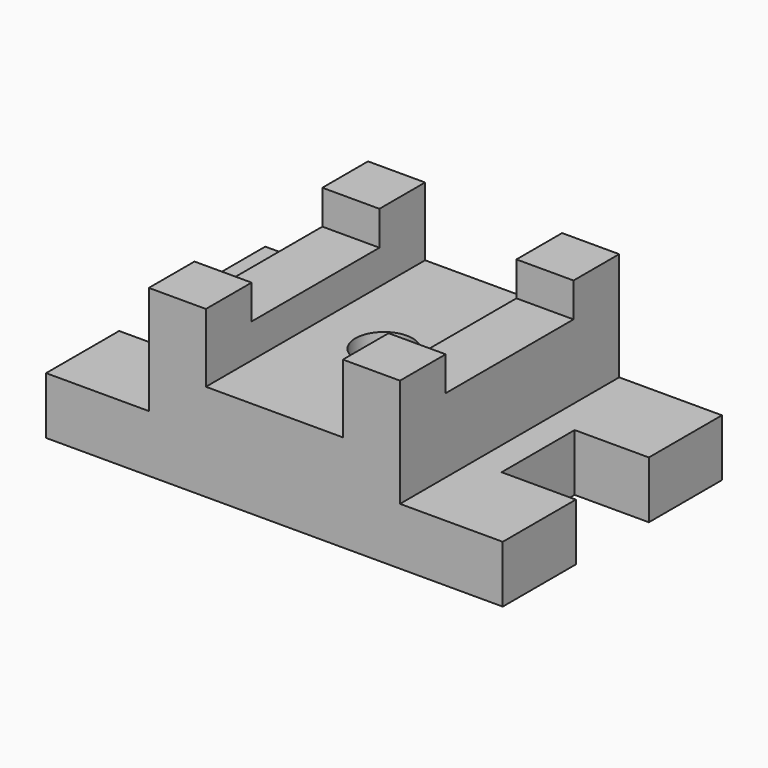
from build123d import *

# Parameters (mm, degrees)
F1_DEPTH = 31.75
F0_W     = 31.75
F0_H     = 31.75
F2_DEPTH = 92.075
F0_H_2   = 88.9
F3_DEPTH = 73.025
F0_R     = 15.875
F4_DEPTH = 53.975


with BuildPart() as f1:
    # F0 (on Top) → F1 (new body)
    with BuildSketch(Plane.XY):
        Polygon((-61.845282, 101.6), (-118.995282, 101.6), (-118.995282, 50.8), (-77.720282, 50.8), (-77.720282, 0), (-118.995282, 0), (-118.995282, -50.8), (-61.845282, -50.8), (-61.845282, -19.05), (-61.845282, 69.85), align=None)
        Polygon((135.004718, 101.6), (77.854718, 101.6), (77.854718, 69.85), (77.854718, -19.05), (77.854718, -50.8), (135.004718, -50.8), (135.004718, 0), (93.729718, 0), (93.729718, 50.8), (135.004718, 50.8), align=None)
    extrude(amount=F1_DEPTH)

    # F0 (on Top) → F2 (join)
    with BuildSketch(Plane.XY):
        with Locations((-45.970282, 85.725)):
            Rectangle(F0_W, F0_H)
        with Locations((61.979718, 85.725)):
            Rectangle(F0_W, F0_H)
        with Locations((-45.970282, -34.925)):
            Rectangle(F0_W, F0_H)
        with Locations((61.979718, -34.925)):
            Rectangle(F0_W, F0_H)
    extrude(amount=F2_DEPTH)

    # F0 (on Top) → F3 (join)
    with BuildSketch(Plane.XY):
        with Locations((61.979718, 25.4)):
            Rectangle(F0_W, F0_H_2)
        with Locations((-45.970282, 25.4)):
            Rectangle(F0_W, F0_H_2)
    extrude(amount=F3_DEPTH)

    # F0 (on Top) → F4 (join)
    with BuildSketch(Plane.XY):
        Polygon((46.104718, 101.6), (-30.095282, 101.6), (-30.095282, 69.85), (-30.095282, -19.05), (-30.095282, -50.8), (46.104718, -50.8), (46.104718, -19.05), (46.104718, 69.85), align=None)
        with Locations((8.004718, 25.4)):
            Circle(F0_R, mode=Mode.SUBTRACT)
    extrude(amount=F4_DEPTH)


solid = f1.part
